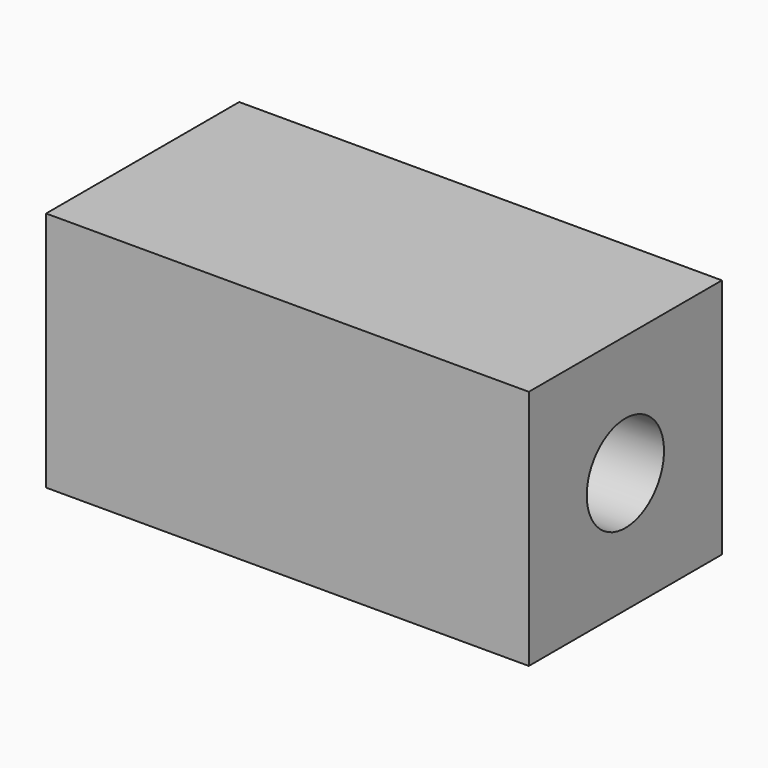
from build123d import *

# Parameters (mm, degrees)
F0_W     = 500
F0_H     = 250
F1_DEPTH = 250
F3_DEPTH = 110.811708
F6_D     = 100


with BuildPart() as f1:
    # F0 (on Top) → F1 (new body)
    with BuildSketch(Plane.XY):
        Rectangle(F0_W, F0_H)
    extrude(amount=-F1_DEPTH)

    # F2 (on face) → F3 (join)
    with BuildSketch(Plane.YZ.offset(250)):
        with BuildLine():
            Line((50, -125), (125, -125))
            Line((125, -125), (125, 0))
            Line((125, 0), (0, 0))
            Line((0, 0), (0, -75))
            ThreePointArc((0, -75), (35.355339, -89.644661), (50, -125))
        make_face()
        with BuildLine():
            Line((0, -125), (50, -125))
            ThreePointArc((50, -125), (35.355339, -89.644661), (0, -75))
            Line((0, -75), (0, -125))
        make_face()
        with BuildLine():
            ThreePointArc((0, -175), (35.355339, -160.355339), (50, -125))
            Line((50, -125), (0, -125))
            Line((0, -125), (0, -175))
        make_face()
        with BuildLine():
            Line((125, -250), (125, -125))
            Line((125, -125), (50, -125))
            ThreePointArc((50, -125), (35.355339, -160.355339), (0, -175))
            Line((0, -175), (0, -250))
            Line((0, -250), (125, -250))
        make_face()
    extrude(amount=-F3_DEPTH)

    # F6 (through all)
    with Locations(Plane.YZ.offset(250)):
        with Locations((0, -125)):
            Hole(F6_D / 2)


solid = f1.part
